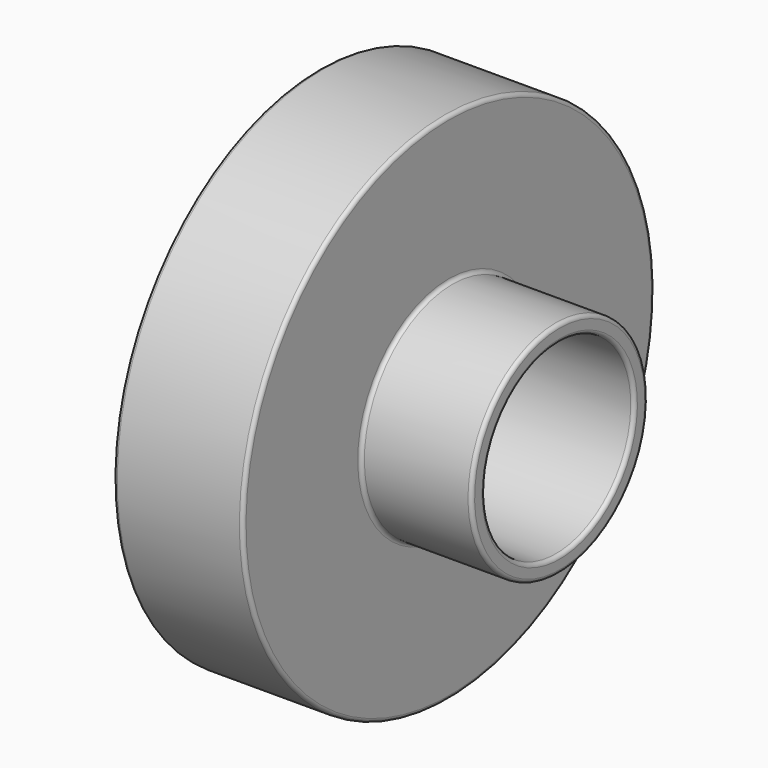
from build123d import *

# Parameters (mm, degrees)
F2_R = 0.2


with BuildPart() as f1:
    # F0 (on Front) → F1 (revolve)
    with BuildSketch(Plane.XZ):
        Polygon((0, 13.9), (0, 5.05), (13, 5.05), (13, 5.95), (7, 5.95), (7, 13.9), align=None)
    revolve(axis=Axis((23.199424, 0, 0), (1, 0, 0)))

    # F2
    f2_edges = [f1.edges().sort_by_distance(p)[0] for p in [
        (7, 0, -5.95),
        (13, 0, -5.95),
        (13, 0, -5.05),
        (7, 0, -13.9),
        (0, 0, -13.9),
        (0, 0, -5.05),
    ]]
    fillet(f2_edges, radius=F2_R)


solid = f1.part
